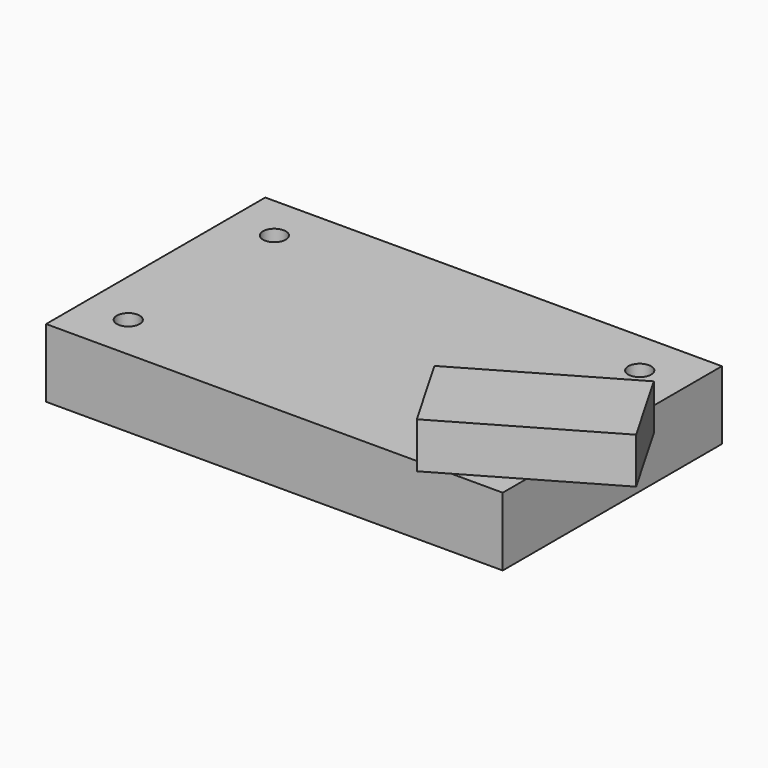
from build123d import *

# Parameters (mm, degrees)
F0_W     = 127
F0_H     = 76.2
F0_R     = 3.175
F1_DEPTH = 19.05
F3_W     = 48.184783
F3_H     = 12.725763
F4_DEPTH = 25.4


with BuildPart() as f1:
    # F0 (on Top) → F1 (new body)
    with BuildSketch(Plane.XY):
        with Locations((-24.208014, 38.1)):
            Rectangle(F0_W, F0_H)
        with Locations((-75.008014, 12.7)):
            Circle(F0_R, mode=Mode.SUBTRACT)
        with Locations((26.591986, 12.7)):
            Circle(F0_R, mode=Mode.SUBTRACT)
        with Locations((-75.008014, 63.5)):
            Circle(F0_R, mode=Mode.SUBTRACT)
        with Locations((26.591986, 63.5)):
            Circle(F0_R, mode=Mode.SUBTRACT)
    extrude(amount=F1_DEPTH)


with BuildPart() as f4:
    # F3 (on face) → F4 (new body)
    with BuildSketch(Plane(origin=(9.822997, -17.013929, 0), x_dir=(-0.866025, -0.5, 0), z_dir=(-0.5, 0.866025, 0))):
        with Locations((-39.244563, 29.180459)):
            Rectangle(F3_W, F3_H)
    extrude(amount=F4_DEPTH)


solid = Compound([f1.part, f4.part])
